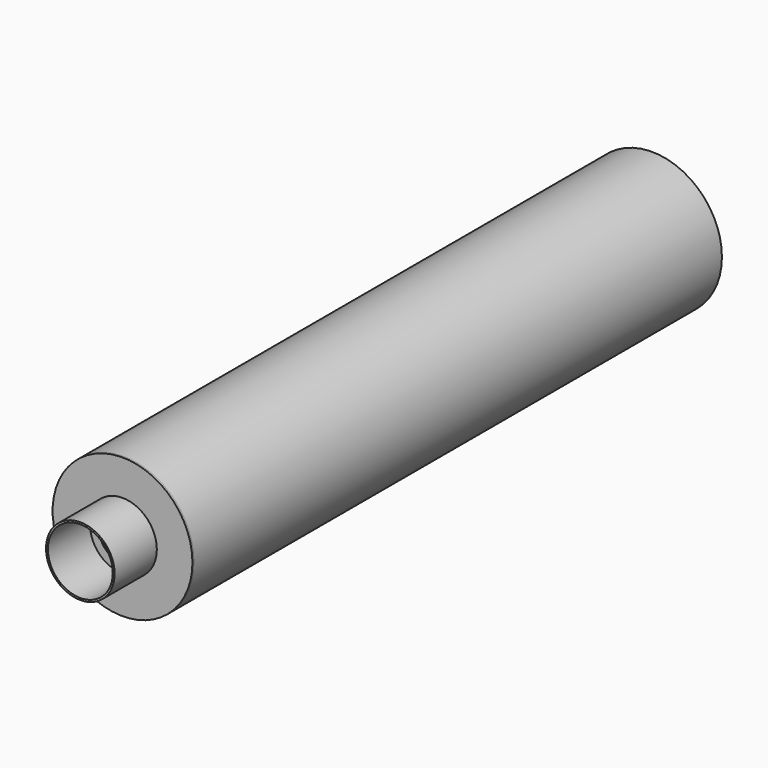
from build123d import *

# Parameters (mm, degrees)
F0_R     = 18.4
F0_R_2   = 17.4
F1_DEPTH = 28.3
F2_R     = 37.5
F2_R_2   = 18.4
F3_DEPTH = 1
F4_R     = 37.5
F4_R_2   = 36.5
F5_DEPTH = 355
F6_R     = 37.5
F6_R_2   = 12.75
F7_DEPTH = 1


with BuildPart() as f1:
    # F0 (on Front) → F1 (new body)
    with BuildSketch(Plane.XZ):
        Circle(F0_R)
        Circle(F0_R_2, mode=Mode.SUBTRACT)
    extrude(amount=F1_DEPTH)


with BuildPart() as f3:
    # F2 (on Front) → F3 (new body)
    with BuildSketch(Plane.XZ):
        Circle(F2_R)
        Circle(F2_R_2, mode=Mode.SUBTRACT)
    extrude(amount=-F3_DEPTH)

    # F4 (on Front) → F5 (join)
    with BuildSketch(Plane.XZ):
        Circle(F4_R)
        Circle(F4_R_2, mode=Mode.SUBTRACT)
    extrude(amount=-F5_DEPTH)


with BuildPart() as f7:
    # F6 (on Front) → F7 (new body)
    with BuildSketch(Plane.XZ):
        Circle(F6_R)
        Circle(F6_R_2, mode=Mode.SUBTRACT)
    extrude(amount=-F7_DEPTH)


solid = Compound([f1.part, f3.part, f7.part])
